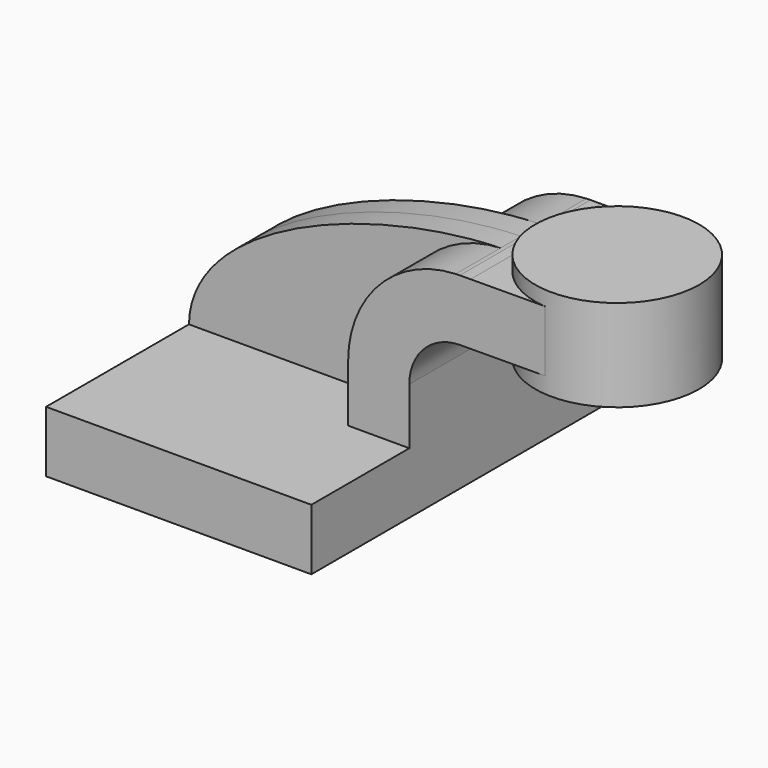
from build123d import *

# Parameters (mm, degrees)
F1_DEPTH = 63.5
F2_DEPTH = 25.4
F3_DEPTH = 7.9375


with BuildPart() as f1:
    # F0 (on Front) → F1 (new body, symmetric)
    with BuildSketch(Plane.XZ):
        Polygon((-41.275, 9.525), (-41.275, -9.525), (41.275, -9.525), (41.275, 9.525), (22.225, 9.525), align=None)
    extrude(amount=F1_DEPTH, both=True)

    # F0 (on Front) → F2 (join, symmetric)
    with BuildSketch(Plane.XZ):
        with BuildLine():
            Line((22.225, 9.525), (41.275, 9.525))
            Line((41.275, 9.525), (41.275, 27.076038))
            ThreePointArc((41.275, 27.076038), (45.898045, 38.27466), (57.074575, 42.950859))
            Line((57.074575, 42.950859), (60.325, 42.966303))
            Line((60.325, 42.966303), (60.325, 62.016518))
            Line((60.325, 62.016518), (56.984065, 62.000644))
            add(Edge.make_bspline(
                [(55.727367, 61.972052), (56.147847, 61.983704), (56.566772, 61.993239), (56.984065, 62.000644)],
                knots=[110.259277, 110.259277, 110.259277, 110.259277, 111.393613, 111.393613, 111.393613, 111.393613], degree=3))
            ThreePointArc((55.727367, 61.972052), (31.956339, 51.263537), (22.225, 27.076038))
            Line((22.225, 27.076038), (22.225, 9.525))
        make_face()
        Polygon((85.63449, 62.136769), (60.325, 62.016518), (60.325, 42.966303), (85.725, 43.086984), (85.725, 52.3875), align=None)
    extrude(amount=F2_DEPTH, both=True)

    # F0 (on Front) → F3 (join, symmetric)
    with BuildSketch(Plane.XZ):
        with BuildLine():
            add(Edge.make_bspline(
                [(-41.275, 9.525), (-40.71646, 39.69462), (14.855971, 60.839367), (55.727367, 61.972052)],
                knots=[0, 0, 0, 0, 110.259277, 110.259277, 110.259277, 110.259277], degree=3))
            Line((-41.275, 9.525), (22.225, 9.525))
            Line((22.225, 9.525), (22.225, 27.076038))
            ThreePointArc((22.225, 27.076038), (31.956339, 51.263537), (55.727367, 61.972052))
        make_face()
    extrude(amount=F3_DEPTH, both=True)

    # F0 (on Front) → F4 (revolve)
    with BuildSketch(Plane.XZ):
        Polygon((85.63449, 66.675), (85.63449, 62.136769), (85.725, 52.3875), (85.725, 43.086984), (85.725, 38.1), (111.125, 38.1), (111.125, 66.675), align=None)
    revolve(axis=Axis((85.63449, 0, 64.405885), (0, 0, -1)))


solid = f1.part
